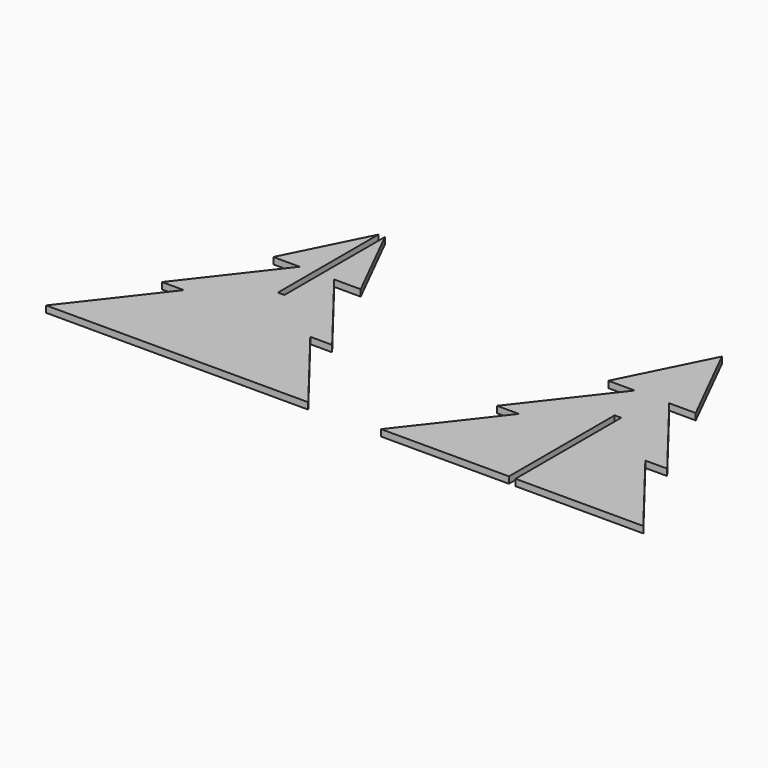
from build123d import *

# Parameters (mm, degrees)
F1_DEPTH = 1.5


with BuildPart() as f1:
    # F0 (on Top) → F1 (new body)
    with BuildSketch(Plane.XY):
        Polygon((-57.210626, 20), (-72.738669, 40), (-66.682582, 40), (-75.932582, 58.5), (-75.932582, 30), (-75.932582, 29.750187), (-77.432582, 29.750187), (-77.432582, 30), (-77.432582, 58.5), (-86.682582, 40), (-80.626496, 40), (-96.154539, 20), (-91.154539, 20), (-106.682582, 0), (-76.682582, 0), (-46.682582, 0), (-62.210626, 20), align=None)
        Polygon((0.75, 0), (30, 0), (14.471957, 20), (19.471957, 20), (3.943913, 40), (10, 40), (0, 60), (-10, 40), (-3.943913, 40), (-19.471957, 20), (-14.471957, 20), (-30, 0), (-0.75, 0), (-0.75, 30.249869), (0.75, 30.249869), align=None)
    extrude(amount=F1_DEPTH)


solid = f1.part
